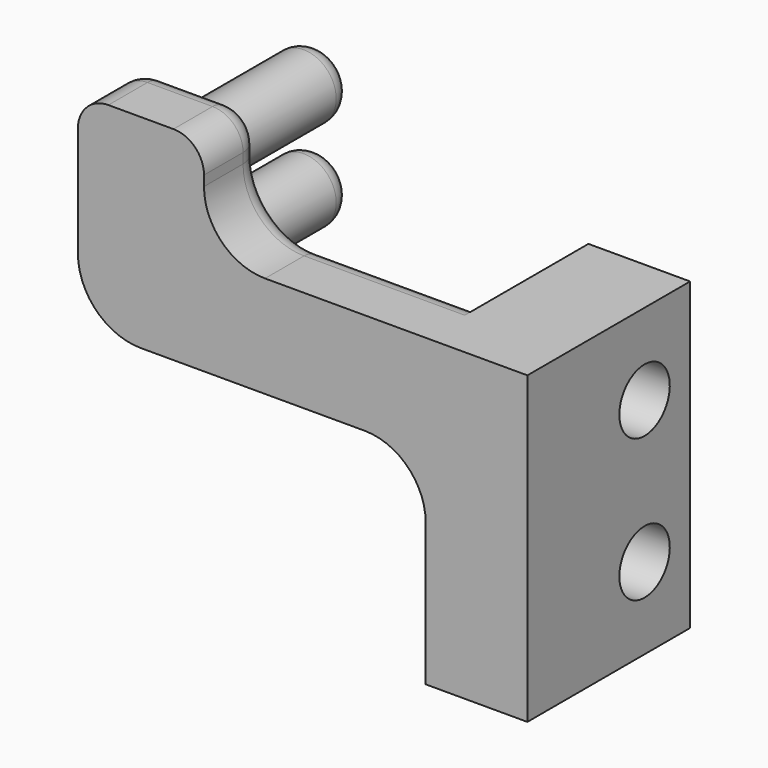
from build123d import *

# Parameters (mm, degrees)
PAD_DEPTH    = 3.5
SKETCH001_W  = 15
SKETCH001_H  = 6.5
SKETCH001_R  = 1.55
PAD001_DEPTH = 5
SKETCH002_W  = 5.6
SKETCH002_H  = 5.6
POCKET_DEPTH = 2
SKETCH003_R  = 1.6
PAD002_DEPTH = 7.5
FILLET_R     = 1.5
FILLET001_R  = 1.1
FILLET002_R  = 1


with BuildPart() as part:
    # Sketch → Pad (new body)
    with BuildSketch(Plane.XZ):
        with BuildLine():
            Line((14, -8), (14, -15))
            Line((14, -15), (19, -15))
            Line((19, -15), (19, 0))
            Line((6.1, 0), (19, 0))
            ThreePointArc((3.1, 3), (3.97868, 0.87868), (6.1, 0))
            Line((3.1, 5), (3.1, 3))
            Line((-3.1, 5), (3.1, 5))
            Line((-3.1, -1.9), (-3.1, 5))
            ThreePointArc((-3.1, -1.9), (-2.192031, -4.092031), (0, -5))
            Line((11, -5), (0, -5))
            ThreePointArc((14, -8), (13.12132, -5.87868), (11, -5))
        make_face()
    extrude(amount=PAD_DEPTH)

    # Sketch001 (on Face4 of Pad) → Pad001 (join)
    with BuildSketch(Plane(origin=(19, 0, 0), x_dir=(0, 0, 1), z_dir=(1, 0, 0))):
        with Locations((-7.5, -3.25)):
            Rectangle(SKETCH001_W, SKETCH001_H)
        with Locations((-4, -3.7)):
            Circle(SKETCH001_R, mode=Mode.SUBTRACT)
        with Locations((-11, -3.7)):
            Circle(SKETCH001_R, mode=Mode.SUBTRACT)
    extrude(amount=-PAD001_DEPTH)

    # Sketch002 (on Face10 of Pad001) → Pocket (cut)
    with BuildSketch(Plane(origin=(14, 0, 0), x_dir=(0, 0, -1), z_dir=(-1, 0, 0))):
        with Locations((4, -3.7)):
            Rectangle(SKETCH002_W, SKETCH002_H)
        with Locations((11, -3.7)):
            Rectangle(SKETCH002_W, SKETCH002_H)
    extrude(amount=-POCKET_DEPTH, mode=Mode.SUBTRACT)

    # Sketch003 (on Face4 of Pocket) → Pad002 (join)
    with BuildSketch(Plane(origin=(0, 0, 0), x_dir=(1, 0, 0), z_dir=(0, 1, 0))):
        with Locations((0, 2.25)):
            Circle(SKETCH003_R)
        with Locations((0, -2.25)):
            Circle(SKETCH003_R)
    extrude(amount=PAD002_DEPTH)

    # Fillet
    fillet_edges = [part.edges().sort_by_distance(p)[0] for p in [
        (-3.1, -1.75, 5),
        (3.1, -1.75, 5),
    ]]
    fillet(fillet_edges, radius=FILLET_R)

    # Fillet001
    fillet001_edges = [part.edges().sort_by_distance(p)[0] for p in [
        (10.05, 0, 0),
        (3.97868, 0, 0.87868),
        (3.1, 0, 3.25),
        (2.66066, 0, 4.56066),
        (0, 0, 5),
        (-2.66066, 0, 4.56066),
        (-3.1, 0, 0.8),
        (-2.192031, 0, -4.092031),
        (5.5, 0, -5),
        (13.12132, 0, -5.87868),
    ]]
    fillet(fillet001_edges, radius=FILLET001_R)

    # Fillet002
    fillet002_edges = [part.edges().sort_by_distance(p)[0] for p in [
        (-1.6, 7.5, 2.25),
        (-1.6, 7.5, -2.25),
    ]]
    fillet(fillet002_edges, radius=FILLET002_R)


solid = part.part
